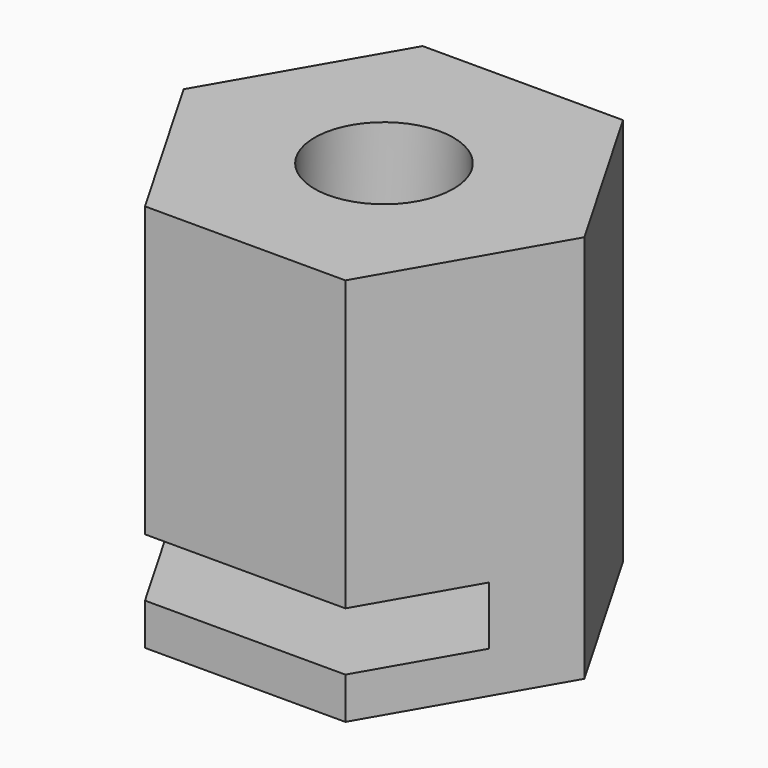
from build123d import *

# Parameters (mm, degrees)
F0_R     = 2.5
F1_DEPTH = 14
F2_W     = 17.4719977542
F2_H     = 2.1
F3_DEPTH = 10
F5_START = -3
F5_DEPTH = 3.9


with BuildPart() as f1:
    # F0 (on Top) → F1 (new body)
    with BuildSketch(Plane.XY):
        Polygon((-3.6084391824, -6.25), (3.6084391824, -6.25), (7.2168783649, 0), (3.6084391824, 6.25), (-3.6084391824, 6.25), (-7.2168783649, 0), align=None)
        Circle(F0_R, mode=Mode.SUBTRACT)
    extrude(amount=F1_DEPTH)

    # F2 (on face) → F3 (cut)
    with BuildSketch(Plane(origin=(-5.4126587737, -3.125, 0), x_dir=(0.5, -0.8660254038, 0), z_dir=(-0.8660254038, -0.5, 0))):
        with Locations((0, 2.55)):
            Rectangle(F2_W, F2_H)
    extrude(amount=-F3_DEPTH, mode=Mode.SUBTRACT)

    # F4 (on face) → F5 (cut)
    with BuildSketch(Plane.XY.offset(14).offset(F5_START)):
        Polygon((2.3094010768, 4), (-2.3094010768, 4), (-10.6891589239, 4), (-10.3349462152, -4), (-2.3094010768, -4), (2.3094010768, -4), (4.6188021535, 0), align=None)
    extrude(amount=-F5_DEPTH, mode=Mode.SUBTRACT)


solid = f1.part
